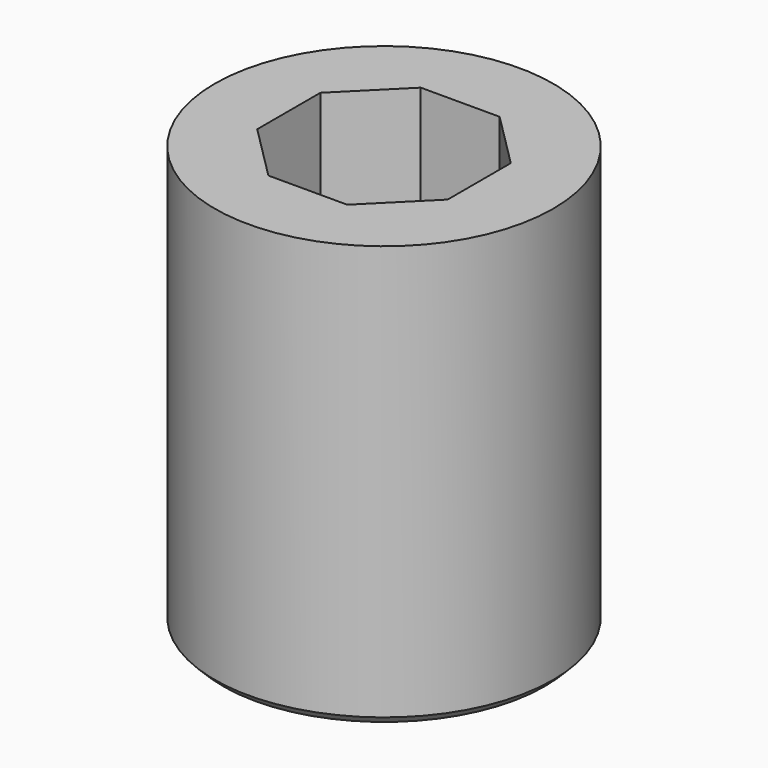
from build123d import *

# Parameters (mm, degrees)
F0_R     = 4
F1_DEPTH = 5
F2_R     = 4
F3_DEPTH = 10
F4_SIZE  = 0.2
F5_SIZE  = 0.2


with BuildPart() as f1:
    # F0 (on Top) → F1 (new body)
    with BuildSketch(Plane.XY):
        Circle(F0_R)
        Polygon((2.598076, 0), (1.299038, -2.25), (-1.299038, -2.25), (-2.598076, 0), (-1.299038, 2.25), (1.299038, 2.25), align=None, mode=Mode.SUBTRACT)
    extrude(amount=F1_DEPTH)

    # F4
    f4_edges = [f1.edges().sort_by_distance(p)[0] for p in [
        (-4, 0, 0),
    ]]
    chamfer(f4_edges, length=F4_SIZE)


with BuildPart() as f3:
    # F2 (on Top) → F3 (new body)
    with BuildSketch(Plane.XY):
        Circle(F2_R)
        Polygon((2.25, -0.931981), (0.931981, -2.25), (-0.931981, -2.25), (-2.25, -0.931981), (-2.25, 0.931981), (-0.931981, 2.25), (0.931981, 2.25), (2.25, 0.931981), align=None, mode=Mode.SUBTRACT)
    extrude(amount=F3_DEPTH)

    # F5
    f5_edges = [f3.edges().sort_by_distance(p)[0] for p in [
        (-4, 0, 0),
    ]]
    chamfer(f5_edges, length=F5_SIZE)


solid = Compound([f1.part, f3.part])
